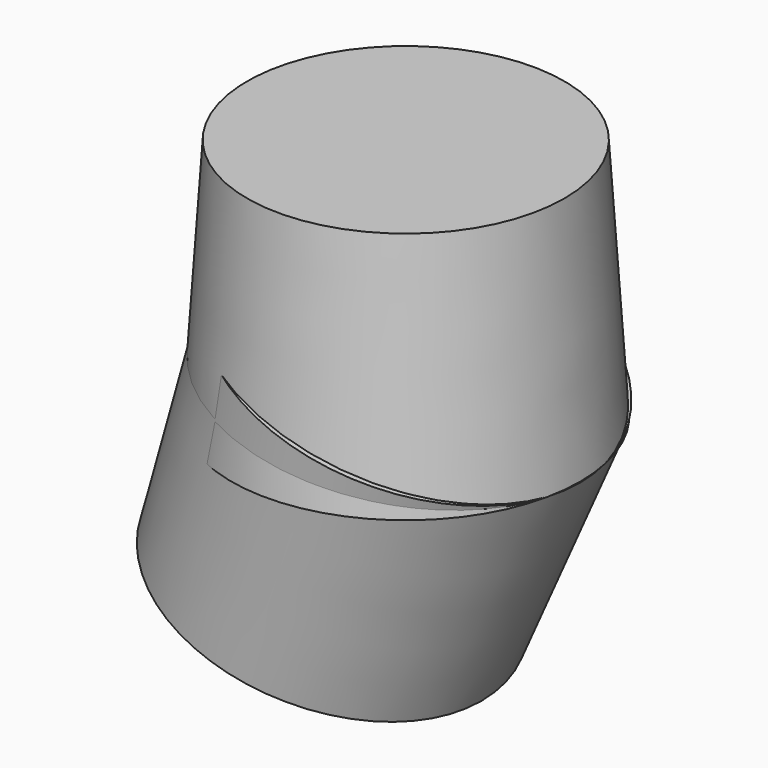
from build123d import *

# Parameters (mm, degrees)
CONE001_PLACEMENT_ANGLE = 20


with BuildPart() as cone:
    # Cone → Cone (revolve)
    with BuildSketch(Plane.XZ):
        Polygon((0, 0), (14.3, 0), (13, 20), (0, 20), align=None)
    revolve(axis=Axis((0, 0, 0), (0, 0, 1)))


with BuildPart() as cone001:
    # Cone001 → Cone001 (revolve)
    with BuildSketch(Plane.XZ):
        Polygon((0, 0), (13, 0), (14.3, 20), (0, 20), align=None)
    revolve(axis=Axis((0, 0, 0), (0, 0, 1)))


with BuildPart() as cone001_1:
    # Cone001 placement: moved
    add(cone001.part.moved(Location((-6, 0, -14))).rotate(Axis((-6, 0, -14), (0, 1, 0)), CONE001_PLACEMENT_ANGLE))


solid = Compound([cone.part, cone001_1.part])
